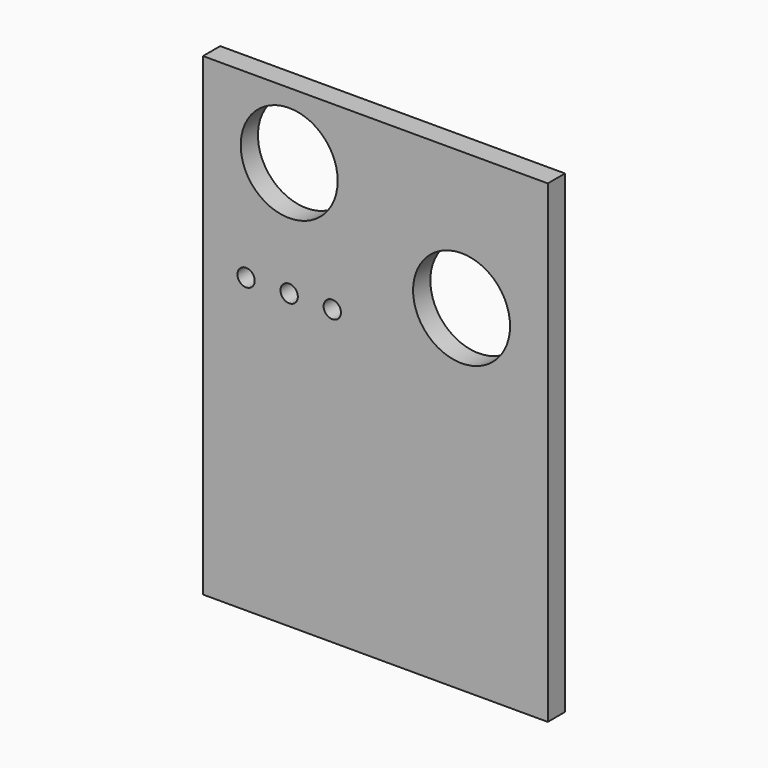
from build123d import *

# Parameters (mm, degrees)
F0_W     = 101.6
F0_H     = 139.7
F0_R     = 2.5527
F0_R_2   = 14.2875
F1_DEPTH = 6.35


with BuildPart() as f1:
    # F0 (on Front) → F1 (new body)
    with BuildSketch(Plane.XZ):
        with Locations((50.8, -69.85)):
            Rectangle(F0_W, F0_H)
        with Locations((12.7, -53.34)):
            Circle(F0_R, mode=Mode.SUBTRACT)
        with Locations((25.4, -53.34)):
            Circle(F0_R, mode=Mode.SUBTRACT)
        with Locations((38.1, -53.34)):
            Circle(F0_R, mode=Mode.SUBTRACT)
        with Locations((25.4, -19.494255)):
            Circle(F0_R_2, mode=Mode.SUBTRACT)
        with Locations((76.2, -40.64)):
            Circle(F0_R_2, mode=Mode.SUBTRACT)
    extrude(amount=F1_DEPTH)


solid = f1.part
